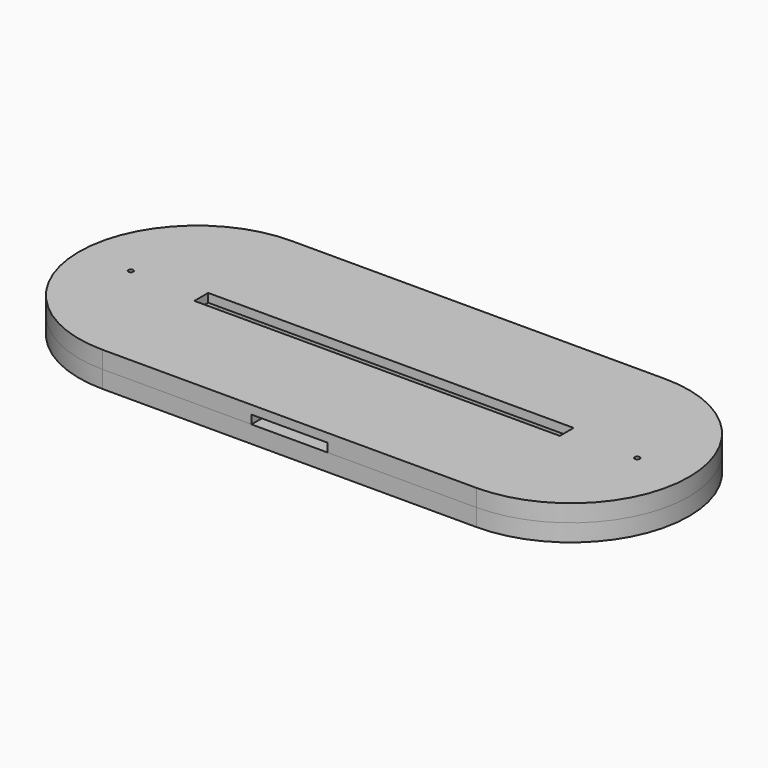
from build123d import *

# Parameters (mm, degrees)
BOX_BOTTOM_HALF_0_W     = 214
BOX_BOTTOM_HALF_0_H     = 84
BOX_BOTTOM_HALF_0_DEPTH = 7
PAD_DEPTH               = 9
POCKET_DEPTH            = 6
SKETCH002_W             = 26.5
SKETCH002_H             = 35
POCKET001_DEPTH         = 6
SKETCH003_W             = 127
SKETCH003_H             = 6
PAD001_DEPTH            = 3
SKETCH004_R             = 0.85
POCKET002_DEPTH         = 467.245989
POLARPATTERN_COUNT      = 2
SKETCH005_W             = 26.5
SKETCH005_H             = 7.5
PAD002_DEPTH            = 3


with BuildPart() as box_bottom_half_0_body:
    # box_bottom_half_0 → box_bottom_half_0 (new body)
    with BuildSketch(Plane(origin=(-107, -42, -1), x_dir=(1, 0, 0), z_dir=(0, 0, 1))):
        with Locations((107, 42)):
            Rectangle(BOX_BOTTOM_HALF_0_W, BOX_BOTTOM_HALF_0_H)
    extrude(amount=BOX_BOTTOM_HALF_0_DEPTH)


with BuildPart() as body:
    # Sketch → Pad (new body)
    with BuildSketch(Plane.XY):
        with BuildLine():
            ThreePointArc((-65, 41), (-106, 0), (-65, -41))
            Line((-65, -41), (65, -41))
            ThreePointArc((65, -41), (106, 0), (65, 41))
            Line((-65, 41), (65, 41))
        make_face()
    extrude(amount=PAD_DEPTH)

    # Sketch001 (on Face6 of Pad) → Pocket (cut)
    with BuildSketch(Plane.XY.offset(9)):
        with BuildLine():
            ThreePointArc((-62.5, 6), (-68.5, 0), (-62.5, -6))
            Line((-62.5, -6), (62.5, -6))
            ThreePointArc((62.5, -6), (68.5, 0), (62.5, 6))
            Line((-62.5, 6), (62.5, 6))
        make_face()
    extrude(amount=-POCKET_DEPTH, mode=Mode.SUBTRACT)

    # Sketch002 (on Face5 of Pocket) → Pocket001 (cut)
    with BuildSketch(Plane.XY.offset(9)):
        with Locations((0, -23.5)):
            Rectangle(SKETCH002_W, SKETCH002_H)
    extrude(amount=-POCKET001_DEPTH, mode=Mode.SUBTRACT)

    # Sketch003 (on Face5 of Pocket001) → Pad001 (join)
    with BuildSketch(Plane.XY.offset(9)):
        with BuildLine():
            ThreePointArc((-65, 41), (-106, 0), (-65, -41))
            Line((-65, -41), (65, -41))
            ThreePointArc((65, -41), (106, 0), (65, 41))
            Line((-65, 41), (65, 41))
        make_face()
        Rectangle(SKETCH003_W, SKETCH003_H, mode=Mode.SUBTRACT)
    extrude(amount=PAD001_DEPTH)

    # Sketch004 (on Face12 of Pad001) → Pocket002 (cut, through all)
    with BuildSketch(Plane.XY.offset(12)):
        with Locations((-88, 0)):
            Circle(SKETCH004_R)
    pocket002 = extrude(amount=-POCKET002_DEPTH, mode=Mode.SUBTRACT)

    # PolarPattern: Pocket002 ×2 about axis
    polarpattern_axis = Axis((0, 0, 12), (0, 0, 1))
    for i in range(1, POLARPATTERN_COUNT):
        add(pocket002.rotate(polarpattern_axis, i * 360 / POLARPATTERN_COUNT), mode=Mode.SUBTRACT)

    # Sketch005 (on Face10 of PolarPattern) → Pad002 (join)
    with BuildSketch(Plane.XY.offset(3)):
        with Locations((0, -37.25)):
            Rectangle(SKETCH005_W, SKETCH005_H)
    extrude(amount=PAD002_DEPTH)


with BuildPart() as bottom_half_0_body:
    # bottom_half_0 base: copy of Body
    add(body.part)

    # bottom_half_0: intersect box_bottom_half_0 body
    add(box_bottom_half_0_body.part, mode=Mode.INTERSECT)


with BuildPart() as top_half_0_body:
    # top_half_0 base: copy of Body
    add(body.part)

    # top_half_0: cut box_bottom_half_0 body
    add(box_bottom_half_0_body.part, mode=Mode.SUBTRACT)


solid = Compound([bottom_half_0_body.part, top_half_0_body.part])
